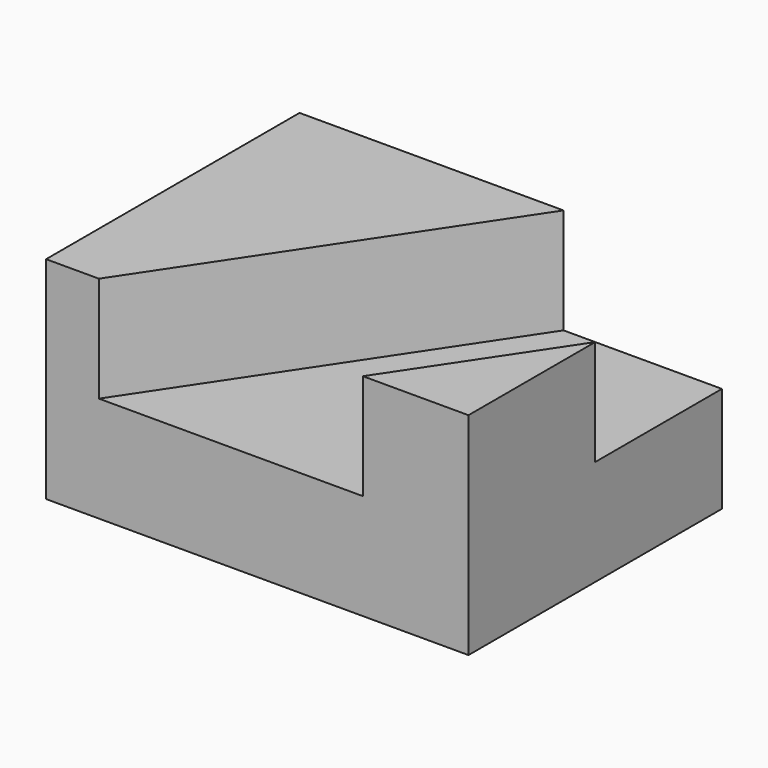
from build123d import *

# Parameters (mm, degrees)
F0_W     = 50.8
F0_H     = 25.4
F1_DEPTH = 38.1
F3_DEPTH = 12.7


with BuildPart() as f1:
    # F0 (on Front) → F1 (new body)
    with BuildSketch(Plane.XZ):
        with Locations((25.4, 12.7)):
            Rectangle(F0_W, F0_H)
    extrude(amount=-F1_DEPTH)

    # F2 (on face) → F3 (cut)
    with BuildSketch(Plane.XY.offset(25.4)):
        Polygon((31.75, 38.1), (6.35, 0), (38.1, 0), (50.8, 19.05), (50.8, 38.1), align=None)
    extrude(amount=-F3_DEPTH, mode=Mode.SUBTRACT)


solid = f1.part
